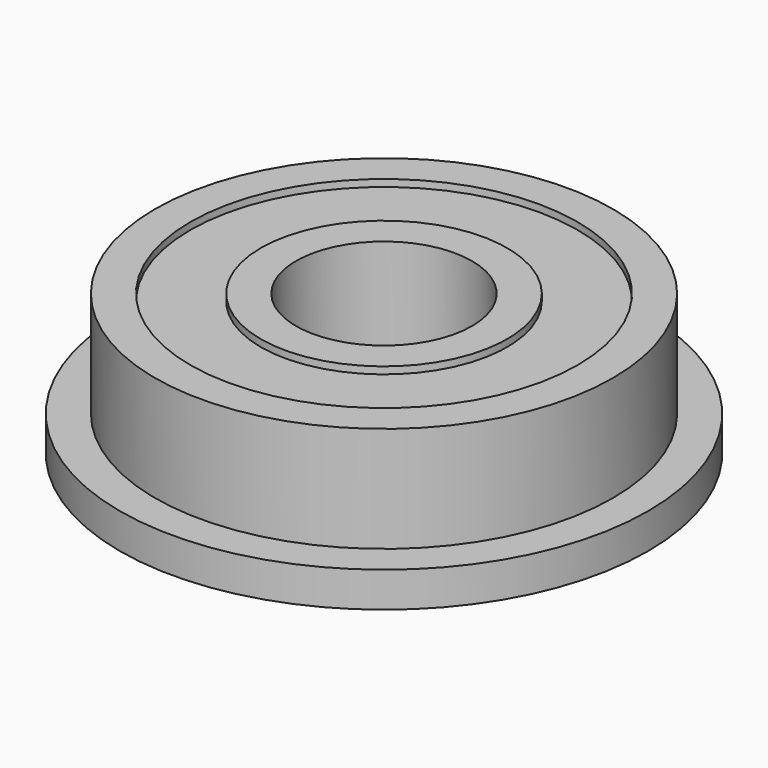
from build123d import *

# Parameters (mm, degrees)
SKETCH001_R     = 5.5
SKETCH001_R_2   = 3.5
POCKET_DEPTH    = 0.2
SKETCH002_R     = 5.5
SKETCH002_R_2   = 3.5
POCKET001_DEPTH = 0.2


with BuildPart() as part:
    # Sketch → Revolution (revolve)
    with BuildSketch(Plane.XZ):
        Polygon((2.5, 4), (6.5, 4), (6.5, 1), (7.5, 1), (7.5, 0), (2.5, 0), align=None)
    revolve(axis=Axis((0, 0, 0), (0, 0, 1)))

    # Sketch001 (on Face1 of Revolution) → Pocket (cut)
    with BuildSketch(Plane(origin=(0, 0, 4), x_dir=(-1, 0, 0), z_dir=(0, 0, 1))):
        Circle(SKETCH001_R)
        Circle(SKETCH001_R_2, mode=Mode.SUBTRACT)
    extrude(amount=-POCKET_DEPTH, mode=Mode.SUBTRACT)

    # Sketch002 (on Face8 of Pocket) → Pocket001 (cut)
    with BuildSketch(Plane(origin=(0, 0, 0), x_dir=(1, 0, 0), z_dir=(0, 0, -1))):
        Circle(SKETCH002_R)
        Circle(SKETCH002_R_2, mode=Mode.SUBTRACT)
    extrude(amount=-POCKET001_DEPTH, mode=Mode.SUBTRACT)


solid = part.part
